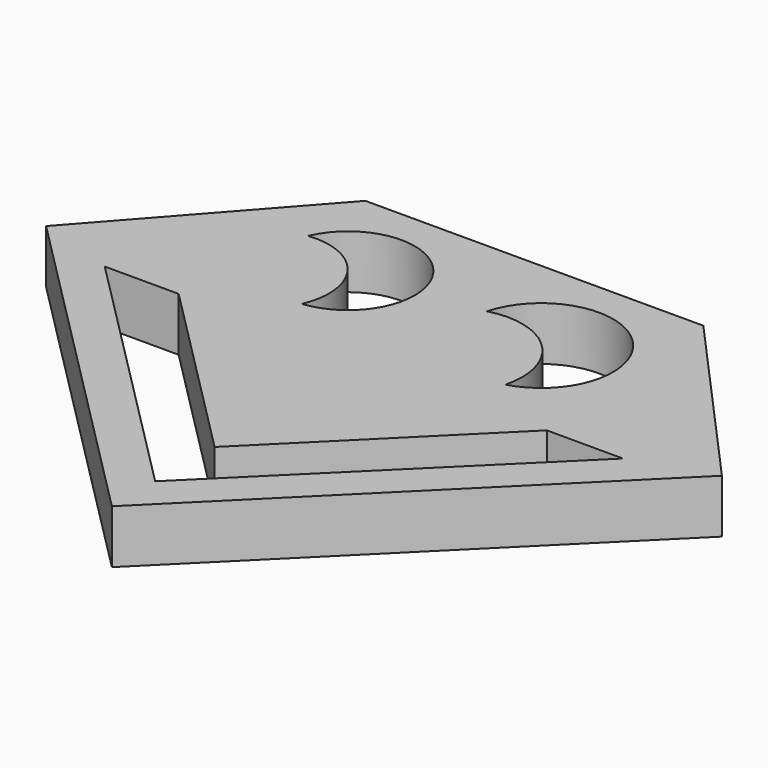
from build123d import *

# Parameters (mm, degrees)
F1_DEPTH = 5.08


with BuildPart() as f1:
    # F0 (on Top) → F1 (new body)
    with BuildSketch(Plane.XY):
        Polygon((16.09368, 17.915163), (-15.924582, 17.915163), (-31.849165, 0), (0, -32.017816), (32.18736, 0), align=None)
        Polygon((0, -26.889354), (-24.409898, -2.350199), (-17.397631, -2.360984), (0, -19.850741), (17.528368, -2.414702), (24.747919, -2.425806), align=None, mode=Mode.SUBTRACT)
        with BuildLine():
            ThreePointArc((-15.731339, 10.879274), (-4.832174, 12.101478), (-9.286881, 2.079444))
            ThreePointArc((-9.286881, 2.079444), (-9.959517, 8.346525), (-15.731339, 10.879274))
        make_face(mode=Mode.SUBTRACT)
        with BuildLine():
            ThreePointArc((2.155719, 9.712794), (13.510836, 12.771188), (10.564446, 1.386495))
            ThreePointArc((10.564446, 1.386495), (8.75362, 7.966877), (2.155719, 9.712794))
        make_face(mode=Mode.SUBTRACT)
    extrude(amount=F1_DEPTH)


solid = f1.part
